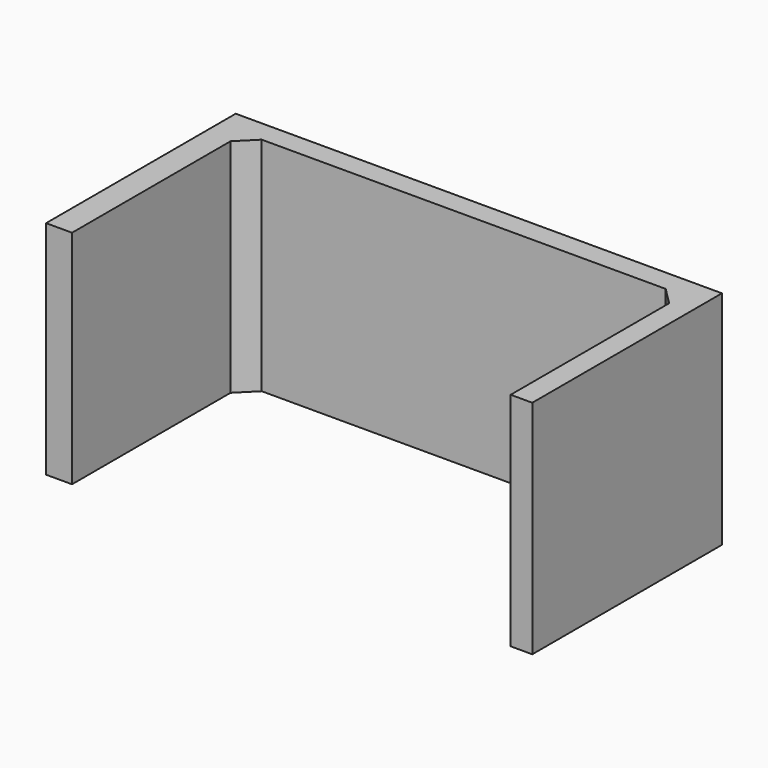
from build123d import *

# Parameters (mm, degrees)
F1_DEPTH = 25.6


with BuildPart() as f1:
    # F0 (on Top) → F1 (new body)
    with BuildSketch(Plane.XY):
        Polygon((56.2, 0), (0, 0), (0, -27.4), (3, -27.4), (3, -4.5), (3, -2.5), (5, -2.5), (51.7, -2.5), (53.7, -2.5), (53.7, -4.5), (53.7, -27.4), (56.2, -27.4), align=None)
        Polygon((51.7, -2.5), (53.7, -4.5), (53.7, -2.5), align=None)
        Polygon((3, -2.5), (3, -4.5), (5, -2.5), align=None)
    extrude(amount=F1_DEPTH)


solid = f1.part
